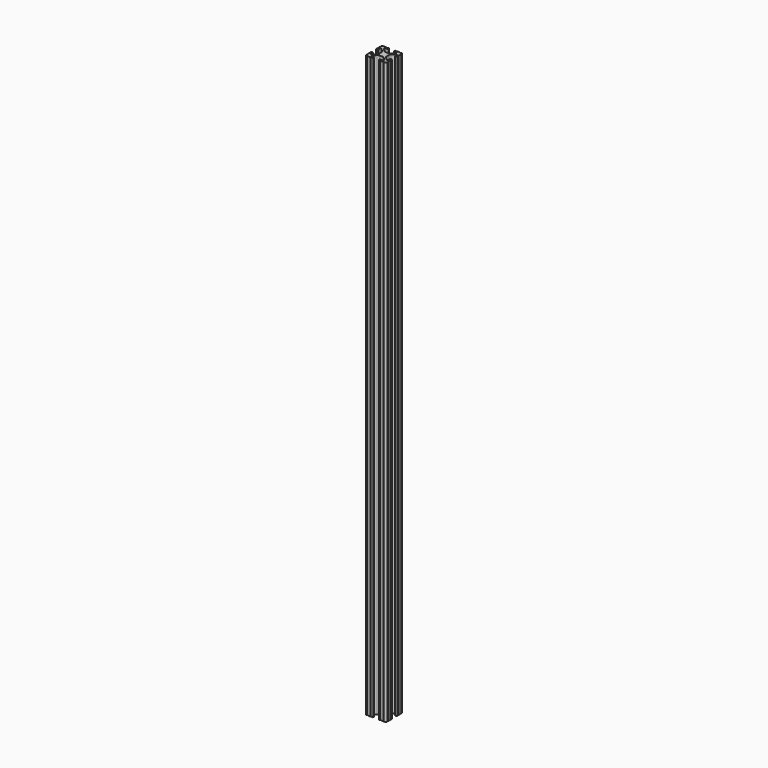
from build123d import *

# Parameters (mm, degrees)
F1_DEPTH = 706


with BuildPart() as f1:
    # F0 (on Top) → F1 (new body)
    with BuildSketch(Plane.XY):
        with BuildLine():
            ThreePointArc((57.021511, 40.96813), (57.655206, 41.917109), (58.77458, 41.69545))
            Line((58.77458, 41.69545), (62.070705, 38.406858))
            ThreePointArc((62.070705, 38.406858), (62.760833, 37.375924), (63.003211, 36.159227))
            Line((63.003211, 36.159227), (63.003211, 32.972856))
            ThreePointArc((63.003211, 32.972856), (62.760833, 31.756158), (62.070705, 30.725225))
            Line((62.070705, 30.725225), (58.77458, 27.436632))
            ThreePointArc((58.77458, 27.436632), (57.655206, 27.214973), (57.021511, 28.163952))
            Line((57.021511, 28.163952), (57.021511, 30.278572))
            ThreePointArc((57.021511, 30.278572), (56.714262, 31.020336), (55.972499, 31.327584))
            Line((55.972499, 31.327584), (55.860723, 31.327584))
            ThreePointArc((55.860723, 31.327584), (55.11896, 31.020336), (54.811711, 30.278572))
            Line((54.811711, 30.278572), (54.811711, 29.248958))
            ThreePointArc((54.811711, 29.248958), (55.319711, 28.740958), (54.811711, 28.232958))
            Line((54.811711, 28.232958), (54.811711, 25.015641))
            ThreePointArc((54.811711, 25.015641), (55.319788, 24.507718), (54.811864, 23.999641))
            ThreePointArc((54.811864, 23.999641), (55.429173, 22.483534), (56.945268, 21.866194))
            ThreePointArc((56.945268, 21.866194), (57.453344, 22.374118), (57.961268, 21.866041))
            Line((57.961268, 21.866041), (61.178584, 21.866041))
            ThreePointArc((61.178584, 21.866041), (61.686584, 22.374041), (62.194584, 21.866041))
            Line((62.194584, 21.866041), (63.224199, 21.866041))
            ThreePointArc((63.224199, 21.866041), (63.965962, 22.17329), (64.273211, 22.915054))
            Line((64.273211, 22.915054), (64.273211, 23.026829))
            ThreePointArc((64.273211, 23.026829), (63.965962, 23.768593), (63.224199, 24.075841))
            Line((63.224199, 24.075841), (61.095303, 24.075841))
            ThreePointArc((61.095303, 24.075841), (60.09698, 24.743228), (60.332061, 25.920849))
            Line((60.332061, 25.920849), (63.559441, 29.142351))
            ThreePointArc((63.559441, 29.142351), (64.588775, 29.829112), (65.802458, 30.070241))
            Line((65.802458, 30.070241), (69.220965, 30.070241))
            ThreePointArc((69.220965, 30.070241), (70.434648, 29.829112), (71.463981, 29.142351))
            Line((71.463981, 29.142351), (74.691362, 25.920849))
            ThreePointArc((74.691362, 25.920849), (74.926442, 24.743228), (73.928119, 24.075841))
            Line((73.928119, 24.075841), (71.799223, 24.075841))
            ThreePointArc((71.799223, 24.075841), (71.05746, 23.768593), (70.750211, 23.026829))
            Line((70.750211, 23.026829), (70.750211, 22.915054))
            ThreePointArc((70.750211, 22.915054), (71.05746, 22.17329), (71.799223, 21.866041))
            Line((71.799223, 21.866041), (72.828838, 21.866041))
            ThreePointArc((72.828838, 21.866041), (73.336838, 22.374041), (73.844838, 21.866041))
            Line((73.844838, 21.866041), (77.062154, 21.866041))
            ThreePointArc((77.062154, 21.866041), (77.570078, 22.374118), (78.078154, 21.866194))
            ThreePointArc((78.078154, 21.866194), (79.594249, 22.483534), (80.211558, 23.999641))
            ThreePointArc((80.211558, 23.999641), (79.703635, 24.507718), (80.211711, 25.015641))
            Line((80.211711, 25.015641), (80.211711, 28.232958))
            ThreePointArc((80.211711, 28.232958), (79.703711, 28.740958), (80.211711, 29.248958))
            Line((80.211711, 29.248958), (80.211711, 30.278572))
            ThreePointArc((80.211711, 30.278572), (79.904462, 31.020336), (79.162699, 31.327584))
            Line((79.162699, 31.327584), (79.050923, 31.327584))
            ThreePointArc((79.050923, 31.327584), (78.30916, 31.020336), (78.001911, 30.278572))
            Line((78.001911, 30.278572), (78.001911, 28.163952))
            ThreePointArc((78.001911, 28.163952), (77.368216, 27.214973), (76.248842, 27.436632))
            Line((76.248842, 27.436632), (72.952717, 30.725225))
            ThreePointArc((72.952717, 30.725225), (72.262589, 31.756158), (72.020211, 32.972856))
            Line((72.020211, 32.972856), (72.020211, 36.159227))
            ThreePointArc((72.020211, 36.159227), (72.262589, 37.375924), (72.952717, 38.406858))
            Line((72.952717, 38.406858), (76.248842, 41.69545))
            ThreePointArc((76.248842, 41.69545), (77.368216, 41.917109), (78.001911, 40.96813))
            Line((78.001911, 40.96813), (78.001911, 38.853511))
            ThreePointArc((78.001911, 38.853511), (78.30916, 38.111747), (79.050923, 37.804498))
            Line((79.050923, 37.804498), (79.162699, 37.804498))
            ThreePointArc((79.162699, 37.804498), (79.904462, 38.111747), (80.211711, 38.853511))
            Line((80.211711, 38.853511), (80.211711, 39.883125))
            ThreePointArc((80.211711, 39.883125), (79.703711, 40.391125), (80.211711, 40.899125))
            Line((80.211711, 40.899125), (80.211711, 44.116441))
            ThreePointArc((80.211711, 44.116441), (79.703635, 44.624365), (80.211558, 45.132441))
            ThreePointArc((80.211558, 45.132441), (79.594249, 46.648549), (78.078154, 47.265889))
            ThreePointArc((78.078154, 47.265889), (77.570078, 46.757965), (77.062154, 47.266041))
            Line((77.062154, 47.266041), (73.844838, 47.266041))
            ThreePointArc((73.844838, 47.266041), (73.336838, 46.758041), (72.828838, 47.266041))
            Line((72.828838, 47.266041), (71.799223, 47.266041))
            ThreePointArc((71.799223, 47.266041), (71.05746, 46.958793), (70.750211, 46.217029))
            Line((70.750211, 46.217029), (70.750211, 46.105254))
            ThreePointArc((70.750211, 46.105254), (71.05746, 45.36349), (71.799223, 45.056241))
            Line((71.799223, 45.056241), (73.9885, 45.056241))
            ThreePointArc((73.9885, 45.056241), (74.943933, 44.417446), (74.718747, 43.290412))
            Line((74.718747, 43.290412), (71.409984, 39.98921))
            ThreePointArc((71.409984, 39.98921), (70.380831, 39.302829), (69.167489, 39.061841))
            Line((69.167489, 39.061841), (65.855933, 39.061841))
            ThreePointArc((65.855933, 39.061841), (64.642591, 39.302829), (63.613439, 39.98921))
            Line((63.613439, 39.98921), (60.304675, 43.290412))
            ThreePointArc((60.304675, 43.290412), (60.079489, 44.417446), (61.034922, 45.056241))
            Line((61.034922, 45.056241), (63.224199, 45.056241))
            ThreePointArc((63.224199, 45.056241), (63.965962, 45.36349), (64.273211, 46.105254))
            Line((64.273211, 46.105254), (64.273211, 46.217029))
            ThreePointArc((64.273211, 46.217029), (63.965962, 46.958793), (63.224199, 47.266041))
            Line((63.224199, 47.266041), (62.194584, 47.266041))
            ThreePointArc((62.194584, 47.266041), (61.686584, 46.758041), (61.178584, 47.266041))
            Line((61.178584, 47.266041), (57.961268, 47.266041))
            ThreePointArc((57.961268, 47.266041), (57.453344, 46.757965), (56.945268, 47.265889))
            ThreePointArc((56.945268, 47.265889), (55.429173, 46.648549), (54.811864, 45.132441))
            ThreePointArc((54.811864, 45.132441), (55.319788, 44.624365), (54.811711, 44.116441))
            Line((54.811711, 44.116441), (54.811711, 40.899125))
            ThreePointArc((54.811711, 40.899125), (55.319711, 40.391125), (54.811711, 39.883125))
            Line((54.811711, 39.883125), (54.811711, 38.853511))
            ThreePointArc((54.811711, 38.853511), (55.11896, 38.111747), (55.860723, 37.804498))
            Line((55.860723, 37.804498), (55.972499, 37.804498))
            ThreePointArc((55.972499, 37.804498), (56.714262, 38.111747), (57.021511, 38.853511))
            Line((57.021511, 38.853511), (57.021511, 40.96813))
        make_face()
    extrude(amount=F1_DEPTH)


solid = f1.part
